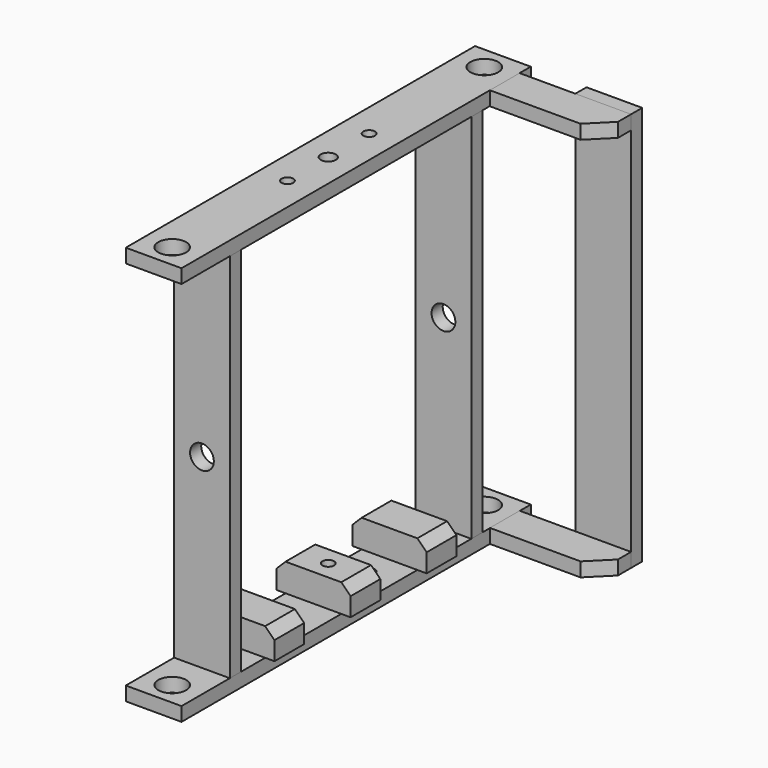
from build123d import *

# Parameters (mm, degrees)
F0_W       = 298.45
F0_H       = 9.525
F1_DEPTH   = 19.05
F2_W       = 9.525
F2_H       = 254
F3_DEPTH   = 19.05
F5_D       = 19.05
F5_2_D     = 19.05
F7_D       = 7.9375
F7_2_D     = 7.9375
F8_D       = 10.3124
F8_2_D     = 10.3124
F10_D      = 16.256
F10_2_D    = 16.256
F11_W      = 50.8
F11_H      = 25.4
F12_DEPTH  = 19.05
F13_SIZE   = 6.35
F13_2_SIZE = 6.35
F13_3_SIZE = 6.35
F14_W      = 76.2
F14_H      = 25.4
F15_DEPTH  = 9.652
F16_SIZE   = 14.224
F18_W      = 38.1
F18_H      = 9.525
F19_DEPTH  = 273.05
F21_D      = 7.9375


with BuildPart() as f1:
    # F0 (on Right) → F1 (new body, symmetric)
    with BuildSketch(Plane.YZ):
        with Locations((0, 131.7625)):
            Rectangle(F0_W, F0_H)
    extrude(amount=F1_DEPTH, both=True)

    # F5 (through all)
    with Locations(Plane.XY.offset(136.525)):
        with Locations((0, -133.35), (0, 133.35)):
            Hole(F5_D / 2)

    # F7 (through all)
    with Locations(Plane.XY.offset(136.525)):
        with Locations((0, -34.925), (0, 34.925)):
            Hole(F7_D / 2)

    # F8 (through all)
    with Locations(Plane.XY.offset(136.525)):
        with Locations((0, 0)):
            Hole(F8_D / 2)


with BuildPart() as f1b:
    # F0 (on Right) → F1, piece 2 (new body, symmetric)
    with BuildSketch(Plane.YZ):
        with Locations((0, -131.7625)):
            Rectangle(F0_W, F0_H)
    extrude(amount=F1_DEPTH, both=True)

    # F5#2 (through all)
    with Locations(Plane.XY.offset(136.525)):
        with Locations((0, -133.35), (0, 133.35)):
            Hole(F5_2_D / 2)

    # F7#2 (through all)
    with Locations(Plane.XY.offset(136.525)):
        with Locations((0, -34.925), (0, 34.925)):
            Hole(F7_2_D / 2)

    # F8#2 (through all)
    with Locations(Plane.XY.offset(136.525)):
        with Locations((0, 0)):
            Hole(F8_2_D / 2)


with BuildPart() as f3:
    # F2 (on Right) → F3 (new body, symmetric)
    with BuildSketch(Plane.YZ):
        with Locations((-103.1875, 0)):
            Rectangle(F2_W, F2_H)
    extrude(amount=F3_DEPTH, both=True)

    # F10 (through all)
    with Locations(Plane.XZ.offset(107.95)):
        with Locations((0, 0)):
            Hole(F10_D / 2)


with BuildPart() as f3b:
    # F2 (on Right) → F3, piece 2 (new body, symmetric)
    with BuildSketch(Plane.YZ):
        with Locations((103.1875, 0)):
            Rectangle(F2_W, F2_H)
    extrude(amount=F3_DEPTH, both=True)

    # F10#2 (through all)
    with Locations(Plane.XZ.offset(107.95)):
        with Locations((0, 0)):
            Hole(F10_2_D / 2)


with BuildPart() as f12:
    # F11 (on face) → F12 (new body)
    with BuildSketch(Plane.XY.offset(-127)):
        Rectangle(F11_W, F11_H)
    extrude(amount=F12_DEPTH)

    # F13#2
    f13_2_edges = [f12.edges().sort_by_distance(p)[0] for p in [
        (-25.4, 0, -107.95),
        (25.4, 0, -107.95),
    ]]
    chamfer(f13_2_edges, length=F13_2_SIZE)

    # F21 (through all)
    with Locations(Plane(origin=(0, 0, -127), x_dir=(1, 0, 0), z_dir=(0, 0, -1))):
        with Locations((0, 0)):
            Hole(F21_D / 2)


with BuildPart() as f12b:
    # F11 (on face) → F12, piece 2 (new body)
    with BuildSketch(Plane.XY.offset(-127)):
        with Locations((0, 65.024)):
            Rectangle(F11_W, F11_H)
    extrude(amount=F12_DEPTH)

    # F13#3
    f13_3_edges = [f12b.edges().sort_by_distance(p)[0] for p in [
        (25.4, 65.024, -107.95),
        (-25.4, 65.024, -107.95),
    ]]
    chamfer(f13_3_edges, length=F13_3_SIZE)


with BuildPart() as f12c:
    # F11 (on face) → F12, piece 3 (new body)
    with BuildSketch(Plane.XY.offset(-127)):
        with Locations((0, -65.024)):
            Rectangle(F11_W, F11_H)
    extrude(amount=F12_DEPTH)

    # F13
    f13_edges = [f12c.edges().sort_by_distance(p)[0] for p in [
        (25.4, -65.024, -107.95),
        (-25.4, -65.024, -107.95),
    ]]
    chamfer(f13_edges, length=F13_SIZE)


with BuildPart() as f15:
    # F14 (on face) → F15 (new body)
    with BuildSketch(Plane.XY.offset(136.525)):
        with Locations((57.15, 127)):
            Rectangle(F14_W, F14_H)
    extrude(amount=-F15_DEPTH)

    # F16
    f16_edges = [f15.edges().sort_by_distance(p)[0] for p in [
        (95.25, 114.3, 131.699),
    ]]
    chamfer(f16_edges, length=F16_SIZE)


with BuildPart() as f17_1:
    # F17: instance of F15
    add(f15.part.mirror(Plane.XY))


with BuildPart() as f19:
    # F18 (on face) → F19 (new body)
    with BuildSketch(Plane.XY.offset(136.525)):
        with Locations((76.2, 144.4625)):
            Rectangle(F18_W, F18_H)
    extrude(amount=-F19_DEPTH)


solid = Compound([f1.part, f1b.part, f3.part, f3b.part, f12.part, f12b.part, f12c.part, f15.part, f17_1.part, f19.part])
